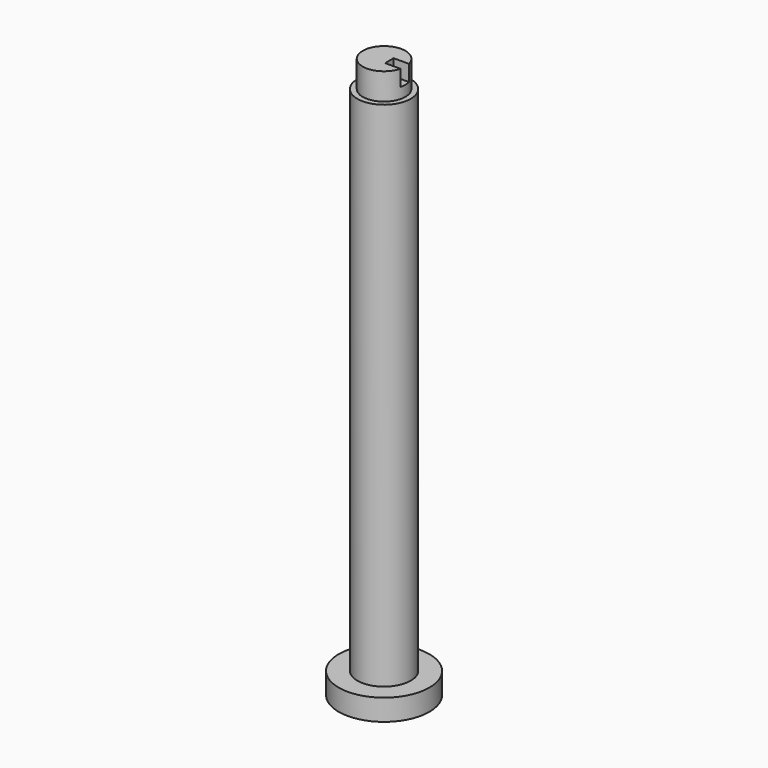
from build123d import *

# Parameters (mm, degrees)
F0_R     = 8.5
F1_DEPTH = 4
F3_R     = 5
F4_DEPTH = 100
F5_W     = 4
F5_H     = 5
F9_DEPTH = 3


with BuildPart() as f1:
    # F0 (on Top) → F1 (new body)
    with BuildSketch(Plane.XY):
        Circle(F0_R)
    extrude(amount=F1_DEPTH)

    # F3 (on Top) → F4 (join)
    with BuildSketch(Plane.XY):
        Circle(F3_R)
    extrude(amount=F4_DEPTH)

    # F5 (on Right) → F6 (revolve)
    with BuildSketch(Plane.YZ):
        with Locations((2, 102.5)):
            Rectangle(F5_W, F5_H)
    revolve(axis=Axis((0, 0, 102.5), (0, 0, -1)))

    # F8 (on face) → F9 (cut)
    with BuildSketch(Plane.XY.offset(105)):
        with BuildLine():
            Line((3.8729833462, 1), (1, 1))
            Line((1, 1), (1, -1))
            Line((1, -1), (3.8729833462, -1))
            ThreePointArc((3.8729833462, -1), (3.9681187851, -0.5040171699), (4, 0))
            ThreePointArc((4, 0), (3.9681187851, 0.5040171699), (3.8729833462, 1))
        make_face()
    extrude(amount=-F9_DEPTH, mode=Mode.SUBTRACT)


solid = f1.part
